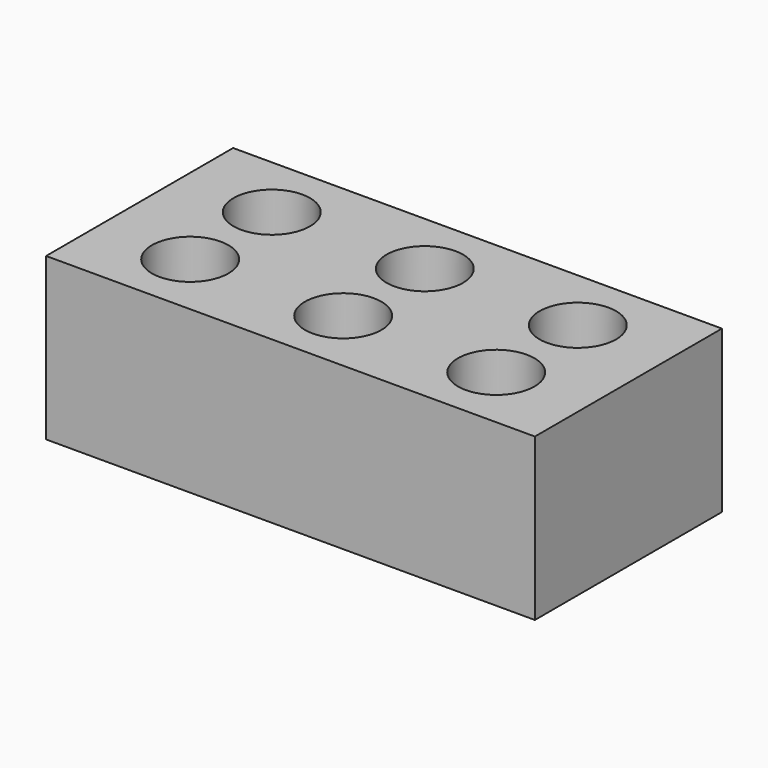
from build123d import *

# Parameters (mm, degrees)
CYLINDER001_R     = 18
CYLINDER001_DEPTH = 76
CYLINDER002_R     = 18
CYLINDER002_DEPTH = 76
CYLINDER003_R     = 18
CYLINDER003_DEPTH = 76
CYLINDER004_R     = 18
CYLINDER004_DEPTH = 76
CYLINDER005_R     = 18
CYLINDER005_DEPTH = 76
CYLINDER_R        = 18
CYLINDER_DEPTH    = 76
BOX_W             = 230
BOX_H             = 110
BOX_DEPTH         = 76


with BuildPart() as cilindre001:
    # Cylinder001 → Cylinder001 (new body)
    with BuildSketch(Plane(origin=(144, 0, 0), x_dir=(1, 0, 0), z_dir=(0, 0, 1))):
        Circle(CYLINDER001_R)
    extrude(amount=CYLINDER001_DEPTH)


with BuildPart() as cilindre002:
    # Cylinder002 → Cylinder002 (new body)
    with BuildSketch(Plane(origin=(0, 48, 0), x_dir=(1, 0, 0), z_dir=(0, 0, 1))):
        Circle(CYLINDER002_R)
    extrude(amount=CYLINDER002_DEPTH)


with BuildPart() as cilindre003:
    # Cylinder003 → Cylinder003 (new body)
    with BuildSketch(Plane(origin=(72, 48, 0), x_dir=(1, 0, 0), z_dir=(0, 0, 1))):
        Circle(CYLINDER003_R)
    extrude(amount=CYLINDER003_DEPTH)


with BuildPart() as cilindre004:
    # Cylinder004 → Cylinder004 (new body)
    with BuildSketch(Plane(origin=(144, 48, 0), x_dir=(1, 0, 0), z_dir=(0, 0, 1))):
        Circle(CYLINDER004_R)
    extrude(amount=CYLINDER004_DEPTH)


with BuildPart() as cilindre005:
    # Cylinder005 → Cylinder005 (new body)
    with BuildSketch(Plane.XY):
        Circle(CYLINDER005_R)
    extrude(amount=CYLINDER005_DEPTH)


with BuildPart() as cilindre:
    # Cylinder → Cylinder (new body)
    with BuildSketch(Plane(origin=(72, 0, 0), x_dir=(1, 0, 0), z_dir=(0, 0, 1))):
        Circle(CYLINDER_R)
    extrude(amount=CYLINDER_DEPTH)


with BuildPart() as cut005:
    # Box → Box (new body)
    with BuildSketch(Plane(origin=(-43, -31, 0), x_dir=(1, 0, 0), z_dir=(0, 0, 1))):
        with Locations((115, 55)):
            Rectangle(BOX_W, BOX_H)
    extrude(amount=BOX_DEPTH)

    # Cut: cut Cilindre
    add(cilindre.part, mode=Mode.SUBTRACT)

    # Cut001: cut Cilindre005
    add(cilindre005.part, mode=Mode.SUBTRACT)

    # Cut002: cut Cilindre004
    add(cilindre004.part, mode=Mode.SUBTRACT)

    # Cut003: cut Cilindre003
    add(cilindre003.part, mode=Mode.SUBTRACT)

    # Cut004: cut Cilindre002
    add(cilindre002.part, mode=Mode.SUBTRACT)

    # Cut005: cut Cilindre001
    add(cilindre001.part, mode=Mode.SUBTRACT)


solid = cut005.part
